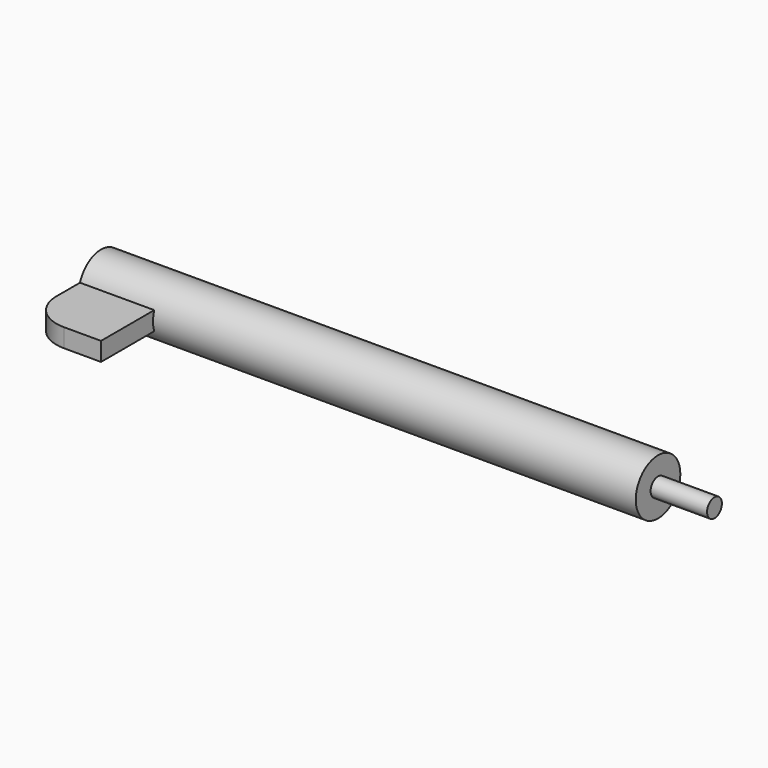
from build123d import *

# Parameters (mm, degrees)
F0_W     = 12.7
F0_H     = 4.7625
F2_DEPTH = 1.5875
F3_R     = 6.35


with BuildPart() as f1:
    # F0 (on Top) → F1 (revolve)
    with BuildSketch(Plane.XY):
        with Locations((-50.996662, 30.11827)):
            Rectangle(F0_W, F0_H)
        Polygon((37.903338, 32.49952), (-44.646662, 32.49952), (-44.646662, 27.73702), (47.555338, 27.73702), (47.555338, 29.32452), (37.903338, 29.32452), align=None)
    revolve(axis=Axis((1.454338, 27.73702, 0), (-1, 0, 0)))

    # F0 (on Top) → F2 (join, symmetric)
    with BuildSketch(Plane.XY):
        Polygon((-44.646662, 22.97452), (-44.646662, 27.73702), (-57.346662, 27.73702), (-57.346662, 11.86202), (-44.646662, 11.86202), align=None)
    extrude(amount=F2_DEPTH, both=True)

    # F3
    f3_edges = [f1.edges().sort_by_distance(p)[0] for p in [
        (-57.346662, 11.86202, 0),
    ]]
    fillet(f3_edges, radius=F3_R)


solid = f1.part
